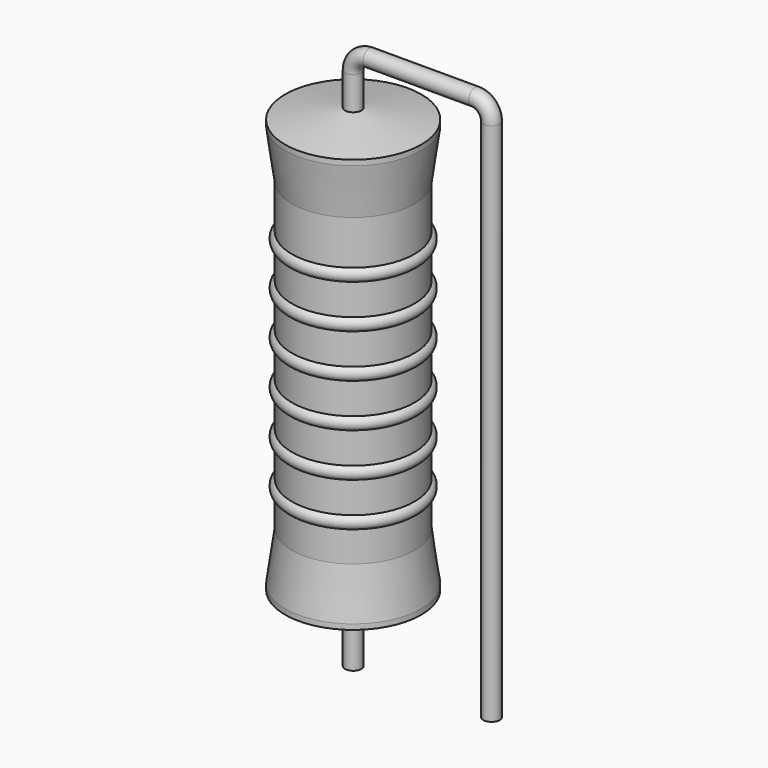
from build123d import *

# Parameters (mm, degrees)
SKETCH_R = 0.45


with BuildPart() as sweep_body:
    # Sweep: sweep along a path in Sketch001
    with BuildLine(Plane.XZ) as sweep_path:
        Line((0, -3), (0, 25.9))
        ThreePointArc((0, 25.9), (0.263601, 26.536393), (0.899991, 26.8))
        Line((0.899991, 26.8), (6.72, 26.8))
        ThreePointArc((6.72, 26.8), (7.356396, 26.536396), (7.62, 25.9))
        Line((7.62, 25.9), (7.62, -3))
    # Sketch → Sweep (sweep)
    with BuildSketch(Plane.XY.offset(-2)):
        Circle(SKETCH_R)
    sweep(path=sweep_path.line)


with BuildPart() as revolution:
    # Sketch002 → Revolution (revolve)
    with BuildSketch(Plane.XZ):
        Polygon((0, 0.1), (0, 24.1), (0.3375, 24.1), (3.75, 23.5), (3.75, 23.2075), (3.375, 20.5), (3.375, 3.7), (3.75, 0.9925), (3.75, 0.7), (0.3375, 0.1), align=None)
    revolve(axis=Axis((0, 0, 0), (0, 0, 1)))


with BuildPart() as revolution001:
    # Sketch003 → Revolution001 (revolve)
    with BuildSketch(Plane.XZ):
        with BuildLine():
            Line((3, 19.75), (3, 3.7))
            Line((3, 3.7), (3.225, 3.7))
            Line((3.225, 3.7), (3.225, 5.35))
            ThreePointArc((3.225, 5.35), (3.6, 5.725), (3.225, 6.1))
            Line((3.225, 6.1), (3.225, 7.75))
            ThreePointArc((3.225, 7.75), (3.6, 8.125), (3.225, 8.5))
            Line((3.225, 8.5), (3.225, 10.15))
            ThreePointArc((3.225, 10.15), (3.6, 10.525), (3.225, 10.9))
            Line((3.225, 10.9), (3.225, 12.55))
            ThreePointArc((3.225, 12.55), (3.6, 12.925), (3.225, 13.3))
            Line((3.225, 13.3), (3.225, 14.95))
            ThreePointArc((3.225, 14.95), (3.6, 15.325), (3.225, 15.7))
            Line((3.225, 15.7), (3.225, 17.35))
            ThreePointArc((3.225, 17.35), (3.6, 17.725), (3.225, 18.1))
            Line((3.225, 19.75), (3.225, 18.1))
            Line((3, 19.75), (3.225, 19.75))
        make_face()
    revolve(axis=Axis((0, 0, 0), (0, 0, 1)))


solid = Compound([sweep_body.part, revolution.part, revolution001.part])
